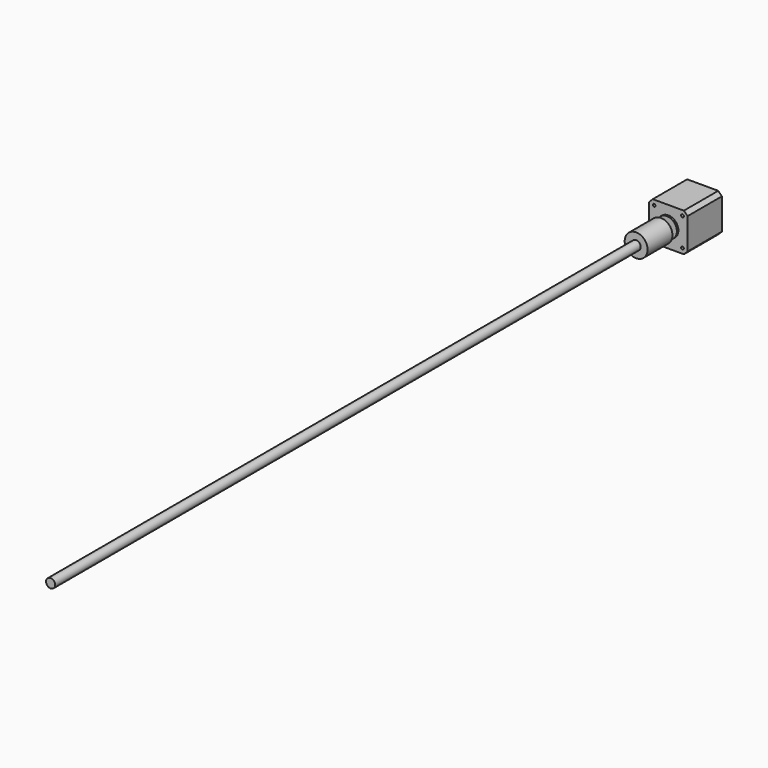
from build123d import *

# Parameters (mm, degrees)
F0_W           = 42
F0_H           = 42
F0_R           = 11
F0_R_2         = 2.5
F1_DEPTH       = 47
F2_DEPTH       = 2
F3_DEPTH       = 25
F4_SIZE        = 4
F5_R           = 1.5
F6_DEPTH       = 6
F7_R           = 12.5
F7_R_2         = 4
F7_R_3         = 2.5
F8_DEPTH       = 19
F8_DEPTH_BACK  = 15
F9_DEPTH       = 15
F10_START      = 4
F10_DEPTH      = 15
F11_R          = 5
F11_R_2        = 4
F12_DEPTH      = 800
F12_DEPTH_BACK = 15


with BuildPart() as f1:
    # F0 (on Front) → F1 (new body)
    with BuildSketch(Plane.XZ):
        Rectangle(F0_W, F0_H)
        Circle(F0_R, mode=Mode.SUBTRACT)
        Circle(F0_R)
        Circle(F0_R_2, mode=Mode.SUBTRACT)
        Circle(F0_R_2)
    extrude(amount=-F1_DEPTH)

    # F0 (on Front) → F2 (join)
    with BuildSketch(Plane.XZ):
        Circle(F0_R)
        Circle(F0_R_2, mode=Mode.SUBTRACT)
        Circle(F0_R_2)
    extrude(amount=F2_DEPTH)

    # F0 (on Front) → F3 (join)
    with BuildSketch(Plane.XZ):
        Circle(F0_R_2)
    extrude(amount=F3_DEPTH)

    # F4
    f4_edges = [f1.edges().sort_by_distance(p)[0] for p in [
        (21, 23.5, 21),
        (-21, 23.5, 21),
        (21, 23.5, -21),
        (-21, 23.5, -21),
    ]]
    chamfer(f4_edges, length=F4_SIZE)

    # F5 (on face) → F6 (cut)
    with BuildSketch(Plane.XZ):
        with Locations((15.5, -15.5)):
            Circle(F5_R)
        with Locations((-15.5, -15.5)):
            Circle(F5_R)
        with Locations((-15.5, 15.5)):
            Circle(F5_R)
        with Locations((15.5, 15.5)):
            Circle(F5_R)
    extrude(amount=-F6_DEPTH, mode=Mode.SUBTRACT)


with BuildPart() as f8:
    # F7 (on face) → F8 (new body, two sides)
    with BuildSketch(Plane.XZ.offset(25)) as f8_sk:
        Circle(F7_R)
        Circle(F7_R_2, mode=Mode.SUBTRACT)
        Circle(F7_R_2)
        Circle(F7_R_3, mode=Mode.SUBTRACT)
        Circle(F7_R_3)
    extrude(amount=F8_DEPTH)
    extrude(f8_sk.sketch, amount=-F8_DEPTH_BACK)

    # F7 (on face) → F9 (cut)
    with BuildSketch(Plane.XZ.offset(25)):
        Circle(F7_R_3)
    extrude(amount=-F9_DEPTH, mode=Mode.SUBTRACT)

    # F7 (on face) → F10 (cut)
    with BuildSketch(Plane.XZ.offset(25).offset(F10_START)):
        Circle(F7_R_2)
        Circle(F7_R_3, mode=Mode.SUBTRACT)
        Circle(F7_R_3)
    extrude(amount=F10_DEPTH, mode=Mode.SUBTRACT)


with BuildPart() as f12:
    # F11 (on face) → F12 (new body, two sides)
    with BuildSketch(Plane.XZ.offset(44)) as f12_sk:
        Circle(F11_R)
        Circle(F11_R_2, mode=Mode.SUBTRACT)
        Circle(F11_R_2)
    extrude(amount=F12_DEPTH)
    extrude(f12_sk.sketch, amount=-F12_DEPTH_BACK)


solid = Compound([f1.part, f8.part, f12.part])
